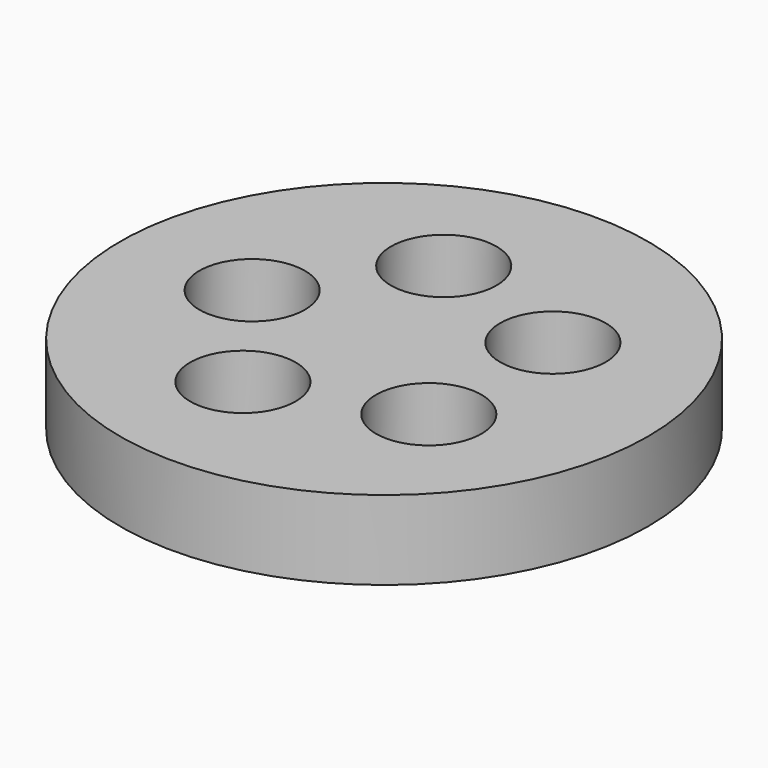
from build123d import *

# Parameters (mm, degrees)
CYLINDER001_R     = 2
CYLINDER001_DEPTH = 10
ARRAY_COUNT       = 5
CYLINDER_R        = 10
CYLINDER_DEPTH    = 3


with BuildPart() as array:
    # Cylinder001 → Cylinder001 (new body)
    with BuildSketch(Plane(origin=(-5, 0, -5), x_dir=(1, 0, 0), z_dir=(0, 0, 1))):
        Circle(CYLINDER001_R)
    extrude(amount=CYLINDER001_DEPTH)

    # Array: Array ×5 about axis
    array_axis = Axis((0, 0, 0), (0, 0, 1))


with BuildPart() as array_1:
    add(array.part)
    for i in range(1, ARRAY_COUNT):
        add(array.part.rotate(array_axis, i * 360 / ARRAY_COUNT))


with BuildPart() as cut:
    # Cylinder → Cylinder (new body)
    with BuildSketch(Plane.XY):
        Circle(CYLINDER_R)
    extrude(amount=CYLINDER_DEPTH)

    # Cut: cut Array
    add(array_1.part, mode=Mode.SUBTRACT)


solid = cut.part
